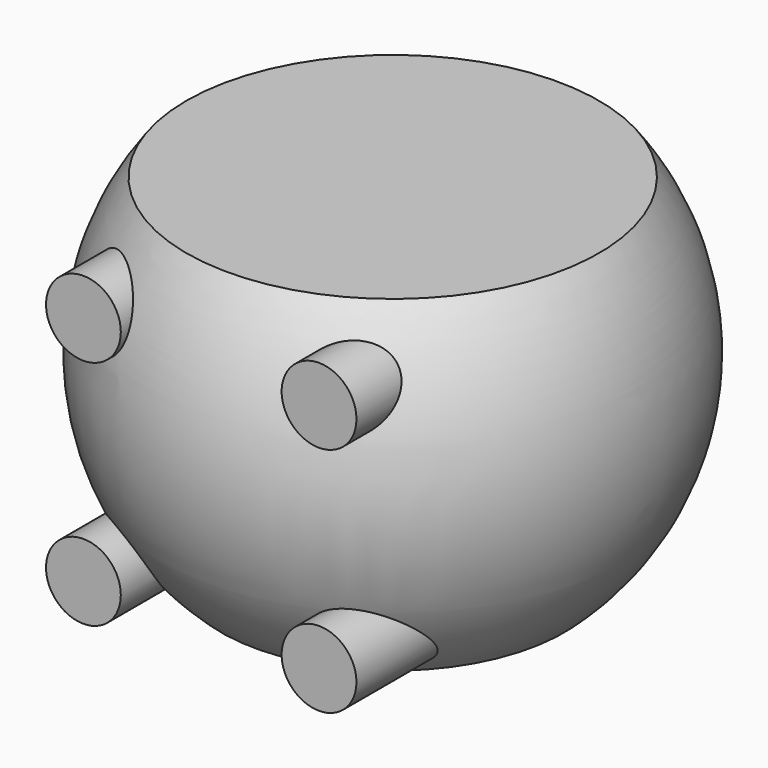
from build123d import *

# Parameters (mm, degrees)
F2_R     = 3.175
F3_DEPTH = 20.32


with BuildPart() as f1:
    # F0 (on Front) → F1 (revolve)
    with BuildSketch(Plane.XZ):
        with BuildLine():
            Line((0, 13.039744), (-17.51884, 13.039744))
            ThreePointArc((-17.51884, 13.039744), (-21.72768, -2.20286), (-14.545188, -16.290555))
            Line((-14.545188, -16.290555), (0, -16.290555))
            Line((0, -16.290555), (0, 13.039744))
        make_face()
    revolve(axis=Axis((0, 0, -1.739485), (0, 0, -1)))

    # F2 (on Front) → F3 (join)
    with BuildSketch(Plane.XZ):
        with Locations((-10.002056, -12.176418)):
            Circle(F2_R)
        with Locations((10.002056, -12.176418)):
            Circle(F2_R)
        with Locations((-10.002056, 7.48646)):
            Circle(F2_R)
        with Locations((10.002056, 7.48646)):
            Circle(F2_R)
    extrude(amount=F3_DEPTH)


solid = f1.part
